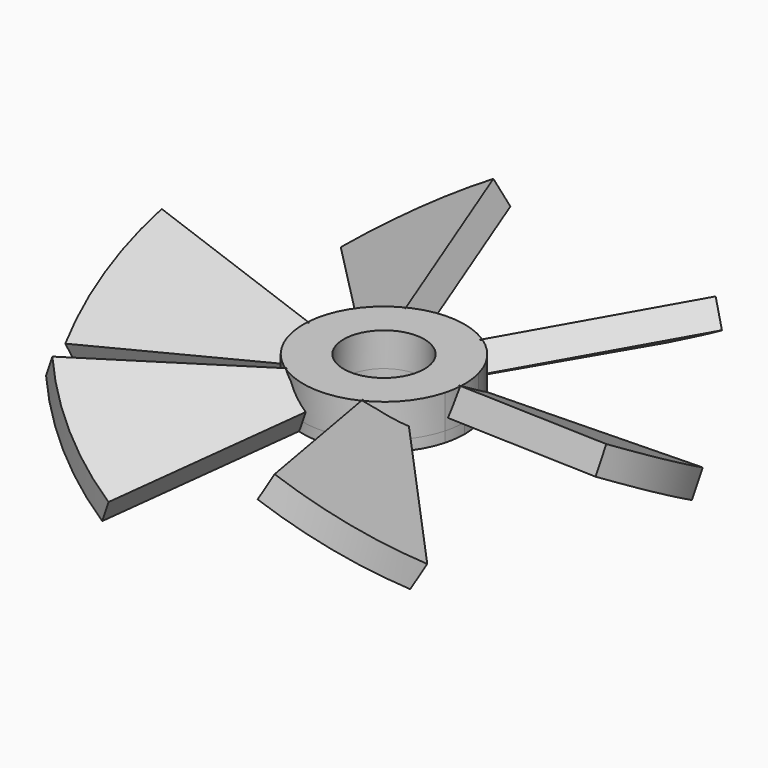
from build123d import *

# Parameters (mm, degrees)
F1_DEPTH      = 10
F2_ANGLE      = 30
F4_COUNT      = 6
F0_R          = 15
F5_DEPTH      = 12.5425397144
F5_DEPTH_BACK = 3.8822856765


with BuildPart() as f1:
    # F0 (on Top) → F1 (new body)
    with BuildSketch(Plane.XY):
        with BuildLine():
            ThreePointArc((28.9777747887, 7.7645713531), (29.7433458412, 3.9157857666), (30, 0))
            ThreePointArc((30, 0), (29.7433458412, -3.9157857666), (28.9777747887, -7.7645713531))
            Line((28.9777747887, -7.7645713531), (96.5925826289, -25.8819045103))
            ThreePointArc((96.5925826289, -25.8819045103), (100, 0), (96.5925826289, 25.8819045103))
            Line((96.5925826289, 25.8819045103), (28.9777747887, 7.7645713531))
        make_face()
    extrude(amount=F1_DEPTH)


with BuildPart() as f1_1:
    # F2: moved
    add(f1.part.rotate(Axis((-33.061, 0, 0), (-1, 0, 0)), F2_ANGLE))


with BuildPart() as f4_1:
    # F4: instance of F1
    add(f1_1.part.rotate(Axis((0, 0, 21.5489156544), (0, 0, 1)), 1 * 360 / F4_COUNT))


with BuildPart() as f4_2:
    # F4: instance of F1
    add(f1_1.part.rotate(Axis((0, 0, 21.5489156544), (0, 0, 1)), 2 * 360 / F4_COUNT))


with BuildPart() as f4_3:
    # F4: instance of F1
    add(f1_1.part.rotate(Axis((0, 0, 21.5489156544), (0, 0, 1)), 3 * 360 / F4_COUNT))


with BuildPart() as f4_4:
    # F4: instance of F1
    add(f1_1.part.rotate(Axis((0, 0, 21.5489156544), (0, 0, 1)), 4 * 360 / F4_COUNT))


with BuildPart() as f4_5:
    # F4: instance of F1
    add(f1_1.part.rotate(Axis((0, 0, 21.5489156544), (0, 0, 1)), 5 * 360 / F4_COUNT))


with BuildPart() as f5:
    # F0 (on Top) → F5 (new body, two sides)
    with BuildSketch(Plane.XY) as f5_sk:
        with BuildLine():
            ThreePointArc((28.9777747887, -7.7645713531), (29.7433458412, -3.9157857666), (30, 0))
            ThreePointArc((30, 0), (29.7433458412, 3.9157857666), (28.9777747887, 7.7645713531))
            ThreePointArc((28.9777747887, 7.7645713531), (-30, 0), (28.9777747887, -7.7645713531))
        make_face()
        Circle(F0_R, mode=Mode.SUBTRACT)
    extrude(amount=F5_DEPTH)
    extrude(f5_sk.sketch, amount=-F5_DEPTH_BACK)


solid = Compound([f1_1.part, f4_1.part, f4_2.part, f4_3.part, f4_4.part, f4_5.part, f5.part])
